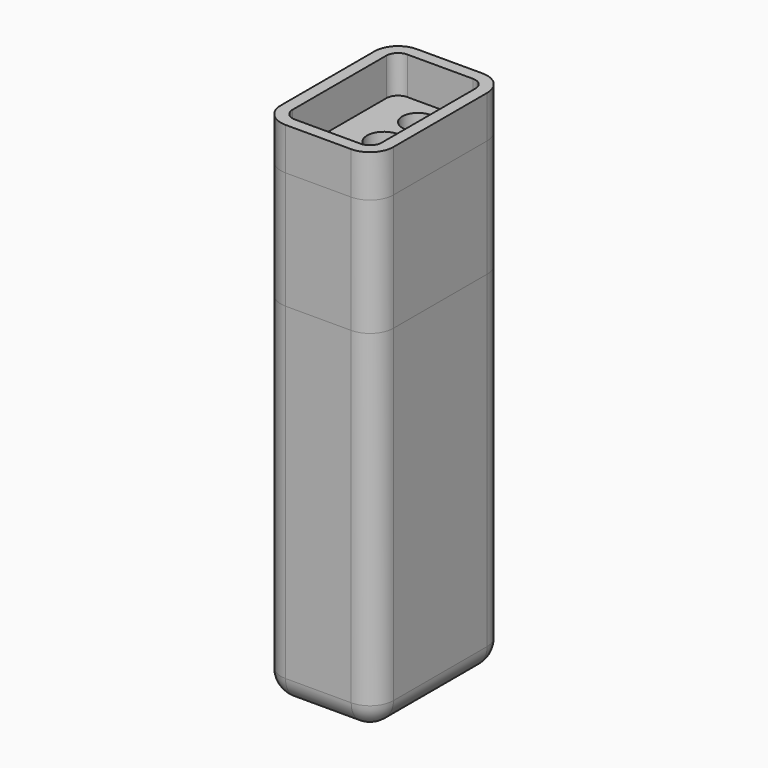
from build123d import *

# Parameters (mm, degrees)
F0_W      = 23.996502161
F0_H      = 34.9701493979
F1_DEPTH  = 74.8382490128
F2_R      = 5
F3_T      = -2.5
F4_W      = 13.996502161
F4_H      = 11.0455658287
F5_DEPTH  = 60.3796765208
F6_R      = 5
F7_DEPTH  = 25
F9_DEPTH  = 24.0058777854
F10_R     = 3.3312129282
F10_R_2   = 3.6010333326
F11_DEPTH = 18.0684719235
F12_R     = 2.8574653166
F13_DEPTH = 25
F14_DEPTH = 1.0086121038
F15_DEPTH = 8.999126032


with BuildPart() as f1:
    # F0 (on Top) → F1 (new body)
    with BuildSketch(Plane.XY):
        Rectangle(F0_W, F0_H)
    extrude(amount=F1_DEPTH)

    # F2
    f2_edges = [f1.edges().sort_by_distance(p)[0] for p in [
        (11.998251, -17.485075, 37.419125),
        (11.998251, 17.485075, 37.419125),
        (-11.998251, 17.485075, 37.419125),
        (-11.998251, -17.485075, 37.419125),
        (-11.998251, 0, 0),
        (11.998251, 0, 0),
        (0, 17.485075, 0),
        (0, -17.485075, 0),
    ]]
    fillet(f2_edges, radius=F2_R)

    # F3
    f3_openings = [f1.faces().sort_by_distance(p)[0] for p in [
        (0, 0, 74.838249),
    ]]
    offset(amount=F3_T, openings=f3_openings)

    # F4 (on face) → F5 (join)
    with BuildSketch(Plane.XY.offset(2.5)):
        Rectangle(F4_W, F4_H)
    extrude(amount=F5_DEPTH)

    # F6
    f6_edges = [f1.edges().sort_by_distance(p)[0] for p in [
        (0, -5.522783, 62.879677),
        (0, 5.522783, 62.879677),
    ]]
    fillet(f6_edges, radius=F6_R)

    # F7 (add): a face of the model
    f7_faces = [f1.faces().sort_by_distance(p)[0] for p in [
        (0, -17.0609587402, 74.8382490128),
    ]]
    extrude(f7_faces, amount=F7_DEPTH)


with BuildPart() as f9:
    # F8 (on face) → F9 (new body)
    with BuildSketch(Plane.XY.offset(99.8382490128)):
        with BuildLine():
            Line((-6.9982510805, -14.9850746989), (6.9982510805, -14.9850746989))
            ThreePointArc((6.9982510805, -14.9850746989), (8.7660180335, -14.2528416519), (9.4982510805, -12.4850746989))
            Line((9.4982510805, -12.4850746989), (9.4982510805, 12.4850746989))
            ThreePointArc((9.4982510805, 12.4850746989), (8.7660180335, 14.2528416519), (6.9982510805, 14.9850746989))
            Line((6.9982510805, 14.9850746989), (-6.9982510805, 14.9850746989))
            ThreePointArc((-6.9982510805, 14.9850746989), (-8.7660180335, 14.2528416519), (-9.4982510805, 12.4850746989))
            Line((-9.4982510805, 12.4850746989), (-9.4982510805, -12.4850746989))
            ThreePointArc((-9.4982510805, -12.4850746989), (-8.7660180335, -14.2528416519), (-6.9982510805, -14.9850746989))
        make_face()
    extrude(amount=-F9_DEPTH)

    # F10 (on face) → F11 (cut)
    with BuildSketch(Plane.XY.offset(99.8382490128)):
        with Locations((0, 9.0401517227)):
            Circle(F10_R)
        Circle(F10_R_2)
    extrude(amount=-F11_DEPTH, mode=Mode.SUBTRACT)

    # F12 (on face) → F13 (cut)
    with BuildSketch(Plane.XY.offset(81.7697770894)):
        with Locations((0, 9.0401517227)):
            Circle(F12_R)
    extrude(amount=-F13_DEPTH, mode=Mode.SUBTRACT)

    # F14 (add): a face of the model
    f14_faces = [f9.faces().sort_by_distance(p)[0] for p in [
        (0, -14.6302399558, 99.8382490128),
    ]]
    extrude(f14_faces, amount=F14_DEPTH)


with BuildPart() as f15:
    # F15 (new): a face of the model
    f15_faces = [f1.part.faces().sort_by_distance(p)[0] for p in [
        (0, -17.0609587402, 99.8382490128),
    ]]
    extrude(f15_faces, amount=F15_DEPTH)


solid = Compound([f1.part, f9.part, f15.part])
